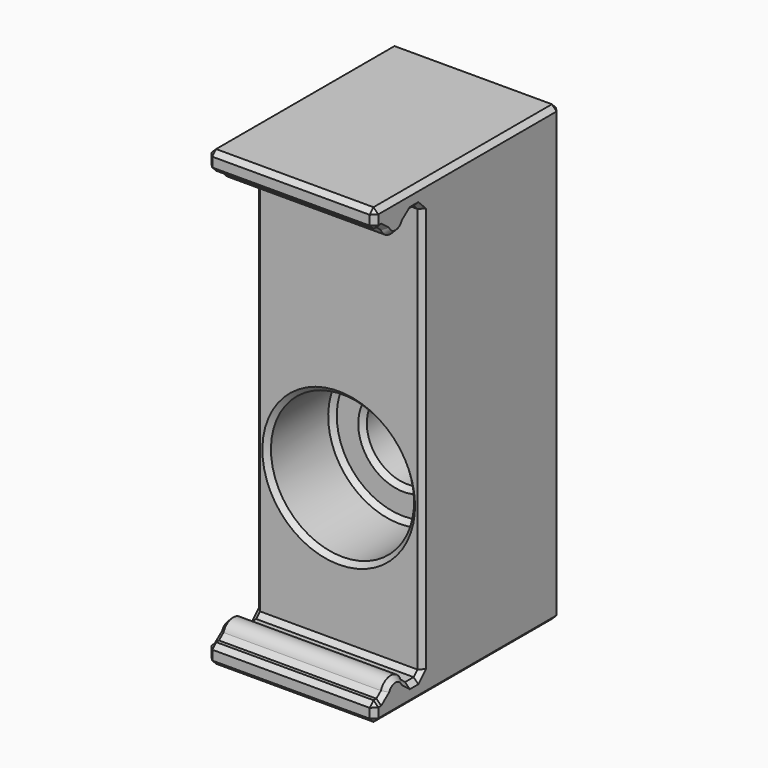
from build123d import *

# Parameters (mm, degrees)
PAD_DEPTH        = 7
HOLE_D           = 3.4
HOLE_CBORE_D     = 6
HOLE_CBORE_DEPTH = 3.4
CHAMFER_SIZE     = 0.2


with BuildPart() as part:
    # Sketch → Pad (new body)
    with BuildSketch(Plane.YZ):
        with BuildLine():
            Line((-2.5, 0), (-2.5, -0.8))
            Line((-2.5, -0.8), (7.25, -0.8))
            Line((7.25, 18.2), (7.25, -0.8))
            Line((-2.5, 18.2), (7.25, 18.2))
            Line((-2.5, 18.2), (-2.5, 17.4))
            Line((-2.5, 17.4), (-1.95, 17.4))
            ThreePointArc((-1.95, 17.4), (-1.4, 16.85), (-0.85, 17.4))
            Line((-0.85, 17.4), (0, 17.4))
            Line((0, 17.4), (0, 0))
            Line((0, 0), (-0.85, 0))
            ThreePointArc((-0.85, 0), (-1.4, 0.55), (-1.95, 0))
            Line((-1.95, 0), (-2.5, 0))
        make_face()
    extrude(amount=PAD_DEPTH)

    # Hole (through all)
    with Locations(Plane(origin=(0, 0, 0), x_dir=(0, 0, -1), z_dir=(0, -1, 0))):
        with Locations((-6.2, 3.5)):
            CounterBoreHole(HOLE_D / 2, HOLE_CBORE_D / 2, HOLE_CBORE_DEPTH)

    # Chamfer
    chamfer_edges = [part.edges().sort_by_distance(p)[0] for p in [
        (3.5, -2.5, 18.2),
        (3.5, -2.5, 17.4),
        (0, -2.5, 17.8),
        (7, -2.5, 17.8),
        (3.5, 7.25, 18.2),
        (0, 2.375, 18.2),
        (7, 2.375, 18.2),
        (3.5, -1.95, 17.4),
        (0, -2.225, 17.4),
        (7, -2.225, 17.4),
        (0, -1.4, 16.85),
        (0, -0.425, 17.4),
        (0, 0, 8.7),
        (0, -0.425, 0),
        (0, -1.4, 0.55),
        (0, -2.225, 0),
        (0, -2.5, -0.4),
        (0, 2.375, -0.8),
        (0, 7.25, 8.7),
        (7, -1.4, 16.85),
        (7, -0.425, 17.4),
        (7, 0, 8.7),
        (7, -0.425, 0),
        (7, -1.4, 0.55),
        (7, -2.225, 0),
        (7, -2.5, -0.4),
        (7, 2.375, -0.8),
        (7, 7.25, 8.7),
        (3.5, 7.25, -0.8),
        (1.8, 7.25, 6.2),
        (3.5, -0.85, 17.4),
        (3.5, 0, 17.4),
        (3.5, 0, 0),
        (0.5, 0, 6.2),
        (3.5, -0.85, 0),
        (3.5, -1.95, 0),
        (3.5, -2.5, 0),
        (3.5, -2.5, -0.8),
        (5.2, 5.325, 6.2),
        (1.8, 3.4, 6.2),
        (0.5, 3.4, 6.2),
        (6.5, 1.7, 6.2),
    ]]
    chamfer(chamfer_edges, length=CHAMFER_SIZE)


solid = part.part
